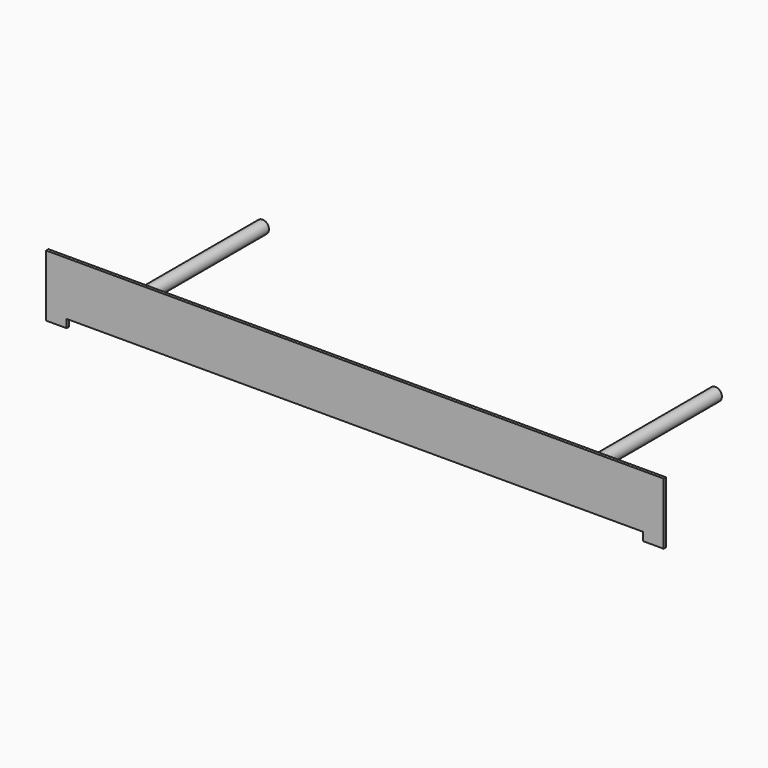
from build123d import *

# Parameters (mm, degrees)
F0_R     = 3.96875
F1_DEPTH = 1.8034
F2_DEPTH = 101.6


with BuildPart() as f1:
    # F0 (on Front) → F1 (new body)
    with BuildSketch(Plane.XZ):
        Polygon((190.5, -19.05), (190.5, 19.05), (-190.5, 19.05), (-190.5, -19.05), (-177.8, -19.05), (-177.8, -13.97), (177.8, -13.97), (177.8, -19.05), align=None)
        with Locations((-139.7, 6.35)):
            Circle(F0_R, mode=Mode.SUBTRACT)
        with Locations((139.7, 6.35)):
            Circle(F0_R, mode=Mode.SUBTRACT)
        with Locations((-139.7, 6.35)):
            Circle(F0_R)
        with Locations((139.7, 6.35)):
            Circle(F0_R)
    extrude(amount=F1_DEPTH)

    # F0 (on Front) → F2 (join)
    with BuildSketch(Plane.XZ):
        with Locations((-139.7, 6.35)):
            Circle(F0_R)
        with Locations((139.7, 6.35)):
            Circle(F0_R)
    extrude(amount=-F2_DEPTH)


solid = f1.part
